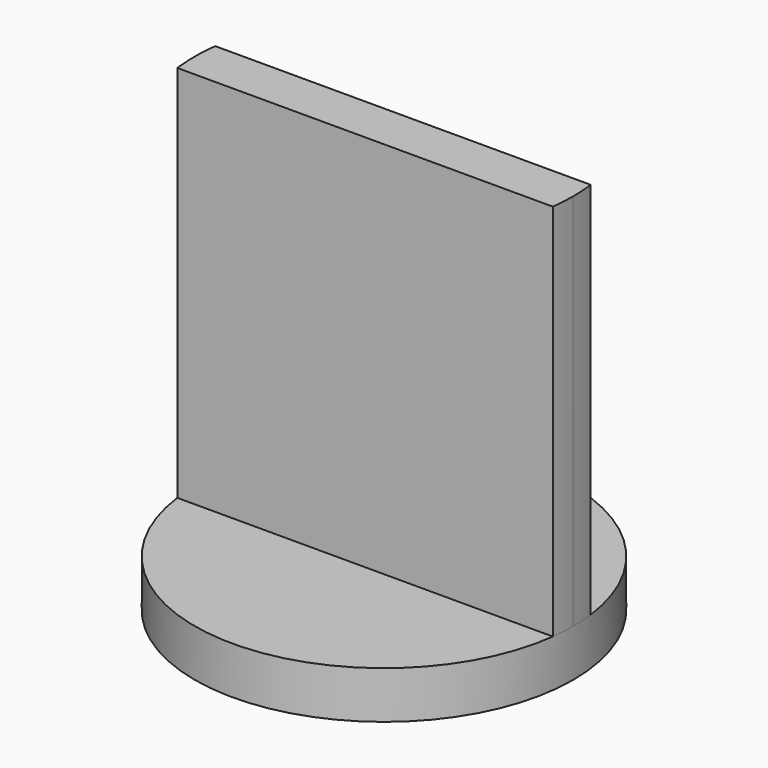
from build123d import *

# Parameters (mm, degrees)
F0_R     = 20
F1_DEPTH = 5
F3_DEPTH = 40


with BuildPart() as f1:
    # F0 (on Top) → F1 (new body)
    with BuildSketch(Plane.XY):
        Circle(F0_R)
    extrude(amount=F1_DEPTH)

    # F2 (on face) → F3 (join)
    with BuildSketch(Plane.XY.offset(5)):
        with BuildLine():
            Line((19.843135, 2.5), (-19.843135, 2.5))
            ThreePointArc((-19.843135, 2.5), (-20, 0), (-19.843135, -2.5))
            Line((-19.843135, -2.5), (19.843135, -2.5))
            ThreePointArc((19.843135, -2.5), (19.960745, -1.252458), (20, 0))
            ThreePointArc((20, 0), (19.960745, 1.252458), (19.843135, 2.5))
        make_face()
    extrude(amount=F3_DEPTH)


solid = f1.part
